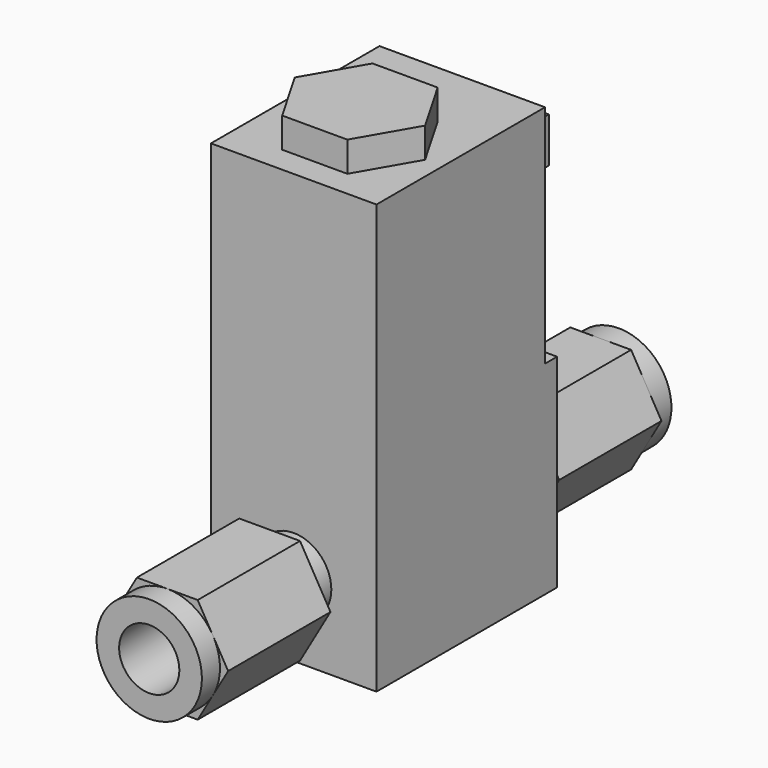
from build123d import *

# Parameters (mm, degrees)
SKETCH_W        = 22
SKETCH_H        = 30
PAD_DEPTH       = 27
SKETCH001_W     = 22
SKETCH001_H     = 28
PAD001_DEPTH    = 30
PAD002_DEPTH    = 4
SKETCH003_R     = 5
PAD003_DEPTH    = 4
PAD004_DEPTH    = 17
SKETCH005_R     = 7
PAD005_DEPTH    = 3
SKETCH006_R     = 4
POCKET_DEPTH    = 30
SKETCH007_W     = 15
SKETCH007_H     = 6
PAD006_DEPTH    = 5
SKETCH008_R     = 5
PAD007_DEPTH    = 4
PAD008_DEPTH    = 17
SKETCH010_R     = 7
PAD009_DEPTH    = 3
SKETCH011_R     = 4
POCKET001_DEPTH = 30
SKETCH012_R     = 2
POCKET002_DEPTH = 5


with BuildPart() as part:
    # Sketch → Pad (new body)
    with BuildSketch(Plane.XY):
        Rectangle(SKETCH_W, SKETCH_H)
    extrude(amount=PAD_DEPTH)

    # Sketch001 (on Face6 of Pad) → Pad001 (join)
    with BuildSketch(Plane.XY.offset(27)):
        with Locations((0, -1)):
            Rectangle(SKETCH001_W, SKETCH001_H)
    extrude(amount=PAD001_DEPTH)

    # Sketch002 (on Face11 of Pad001) → Pad002 (join)
    with BuildSketch(Plane.XY.offset(57)):
        Polygon((8.660254, -4), (4.330127, 3.5), (-4.330127, 3.5), (-8.660254, -4), (-4.330127, -11.5), (4.330127, -11.5), align=None)
    extrude(amount=PAD002_DEPTH)

    # Sketch003 (on Face6 of Pad002) → Pad003 (join)
    with BuildSketch(Plane.XZ.offset(15)):
        with Locations((0, 10)):
            Circle(SKETCH003_R)
    extrude(amount=PAD003_DEPTH)

    # Sketch004 (on Face13 of Pad003) → Pad004 (join)
    with BuildSketch(Plane.XZ.offset(19)):
        Polygon((8.082904, 10), (4.041452, 17), (-4.041452, 17), (-8.082904, 10), (-4.041452, 3), (4.041452, 3), align=None)
    extrude(amount=PAD004_DEPTH)

    # Sketch005 (on Face5 of Pad004) → Pad005 (join)
    with BuildSketch(Plane.XZ.offset(36)):
        with Locations((0, 10)):
            Circle(SKETCH005_R)
    extrude(amount=PAD005_DEPTH)

    # Sketch006 (on Face17 of Pad005) → Pocket (cut)
    with BuildSketch(Plane.XZ.offset(39)):
        with Locations((0, 10)):
            Circle(SKETCH006_R)
    extrude(amount=-POCKET_DEPTH, mode=Mode.SUBTRACT)

    # Sketch007 (on Face29 of Pocket) → Pad006 (join)
    with BuildSketch(Plane(origin=(0, 13, 0), x_dir=(-1, 0, 0), z_dir=(0, 1, 0))):
        with Locations((0, 50)):
            Rectangle(SKETCH007_W, SKETCH007_H)
    extrude(amount=PAD006_DEPTH)

    # Sketch008 (on Face23 of Pad006) → Pad007 (join)
    with BuildSketch(Plane(origin=(0, 15, 0), x_dir=(-1, 0, 0), z_dir=(0, 1, 0))):
        with Locations((0, 10)):
            Circle(SKETCH008_R)
    extrude(amount=PAD007_DEPTH)

    # Sketch009 (on Face37 of Pad007) → Pad008 (join)
    with BuildSketch(Plane(origin=(0, 19, 0), x_dir=(-1, 0, 0), z_dir=(0, 1, 0))):
        Polygon((4.041452, 3), (8.082904, 10), (4.041452, 17), (-4.041452, 17), (-8.082904, 10), (-4.041452, 3), align=None)
    extrude(amount=PAD008_DEPTH)

    # Sketch010 (on Face5 of Pad008) → Pad009 (join)
    with BuildSketch(Plane(origin=(0, 36, 0), x_dir=(-1, 0, 0), z_dir=(0, 1, 0))):
        with Locations((0, 10)):
            Circle(SKETCH010_R)
    extrude(amount=PAD009_DEPTH)

    # Sketch011 (on Face17 of Pad009) → Pocket001 (cut)
    with BuildSketch(Plane(origin=(0, 39, 0), x_dir=(-1, 0, 0), z_dir=(0, 1, 0))):
        with Locations((0, 10)):
            Circle(SKETCH011_R)
    extrude(amount=-POCKET001_DEPTH, mode=Mode.SUBTRACT)

    # Sketch012 (on Face19 of Pocket001) → Pocket002 (cut)
    with BuildSketch(Plane(origin=(0, 0, 0), x_dir=(1, 0, 0), z_dir=(0, 0, -1))):
        with Locations((-7.5, -11)):
            Circle(SKETCH012_R)
        with Locations((7.5, -11)):
            Circle(SKETCH012_R)
    extrude(amount=-POCKET002_DEPTH, mode=Mode.SUBTRACT)


solid = part.part
